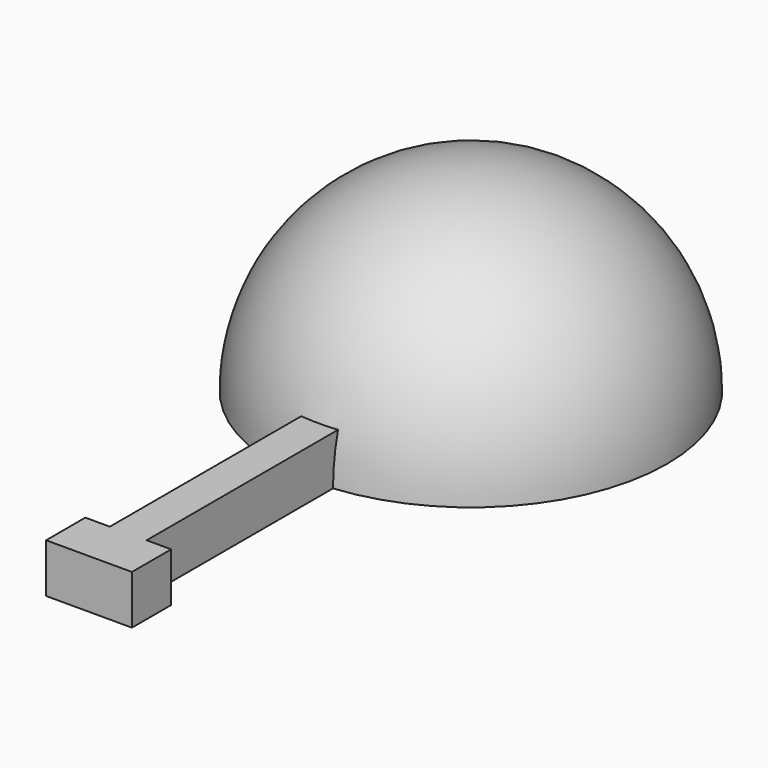
from build123d import *

# Parameters (mm, degrees)
REVOLUTION_ANGLE = 180
PAD_DEPTH        = 4


with BuildPart() as part:
    # Sketch → Revolution (revolve)
    with BuildSketch(Plane.XY):
        with BuildLine():
            ThreePointArc((16, 0), (0, 16), (-16, 0))
            Line((-16, 0), (-15, 0))
            ThreePointArc((15, 0), (0, 15), (-15, 0))
            Line((15, 0), (16, 0))
        make_face()
    revolve(axis=Axis((0, 0, 0), (1, 0, 0)), revolution_arc=REVOLUTION_ANGLE)

    # Sketch001 → Pad (new body)
    with BuildSketch(Plane(origin=(0, 0, 0), x_dir=(1, 0, 0), z_dir=(0, 0, -1))):
        Polygon((-1.5, 14.924812), (-1.5, 34.924812), (-3.5, 34.924812), (-3.5, 38.924812), (3.5, 38.924812), (3.5, 34.924812), (1.5, 34.924812), (1.5, 14.924812), align=None)
    extrude(amount=-PAD_DEPTH)


solid = part.part
